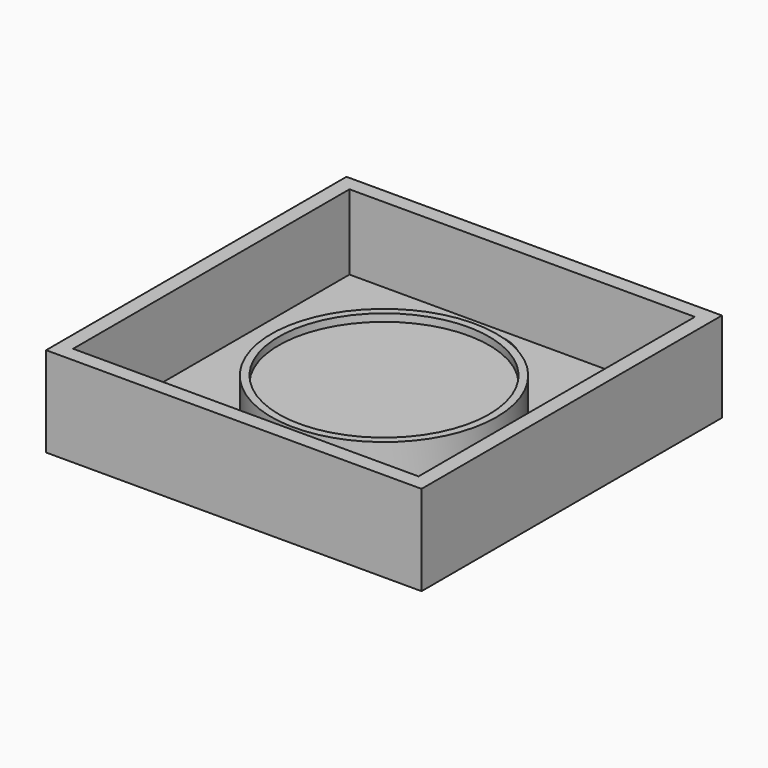
from build123d import *

# Parameters (mm, degrees)
SKETCH_R      = 15
PAD_DEPTH     = 4
SKETCH001_R   = 1.5
PAD001_DEPTH  = 2
SKETCH002_R   = 15
SKETCH002_R_2 = 14
PAD002_DEPTH  = 5
SKETCH003_W   = 50
SKETCH003_H   = 50
PAD003_DEPTH  = 2
SKETCH004_W   = 50
SKETCH004_H   = 50
SKETCH004_W_2 = 46
SKETCH004_H_2 = 46
PAD004_DEPTH  = 10


with BuildPart() as part:
    # Sketch → Pad (new body)
    with BuildSketch(Plane.XY):
        Circle(SKETCH_R)
    extrude(amount=PAD_DEPTH)

    # Sketch001 → Pad001 (join)
    with BuildSketch(Plane.XY):
        with BuildLine():
            add(Edge.make_bspline(
                [(-6.970964, 13.281779), (-4.960107, 17.400153), (0, 20.361549), (4.960107, 17.400153), (6.970964, 13.281779)],
                knots=[0, 0, 0, 0, 0.5, 1, 1, 1, 1], degree=3))
            Line((6.970964, 13.281779), (-6.970964, 13.281779))
        make_face()
        with Locations((0, 16.734485)):
            Circle(SKETCH001_R, mode=Mode.SUBTRACT)
    extrude(amount=PAD001_DEPTH)

    # Sketch002 → Pad002 (join)
    with BuildSketch(Plane.XY):
        Circle(SKETCH002_R)
        Circle(SKETCH002_R_2, mode=Mode.SUBTRACT)
    extrude(amount=PAD002_DEPTH)

    # Sketch003 → Pad003 (join)
    with BuildSketch(Plane.XY):
        Rectangle(SKETCH003_W, SKETCH003_H)
    extrude(amount=-PAD003_DEPTH)

    # Sketch004 → Pad004 (join)
    with BuildSketch(Plane.XY):
        Rectangle(SKETCH004_W, SKETCH004_H)
        Rectangle(SKETCH004_W_2, SKETCH004_H_2, mode=Mode.SUBTRACT)
    extrude(amount=PAD004_DEPTH)


solid = part.part
